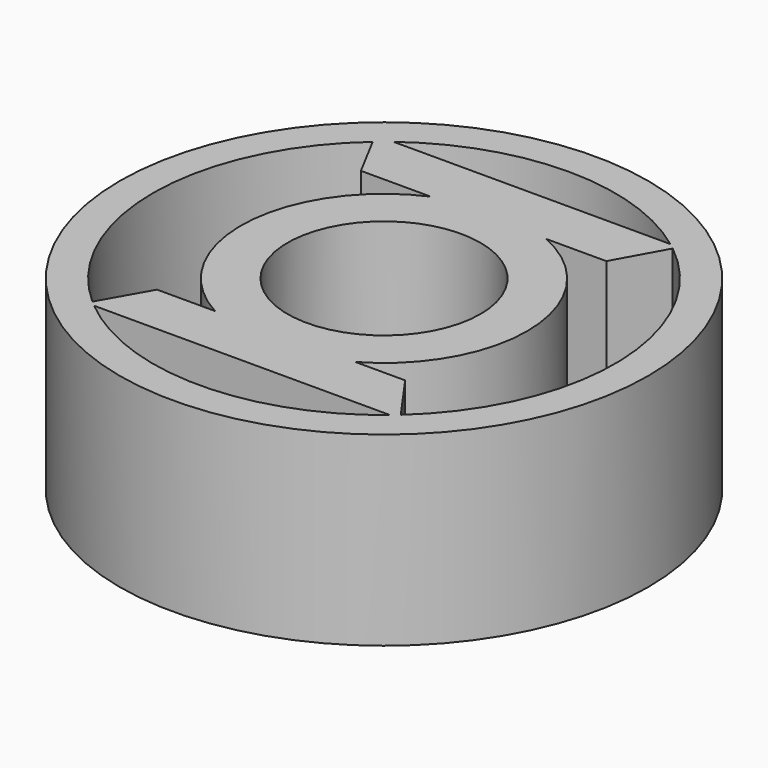
from build123d import *

# Parameters (mm, degrees)
F0_R     = 36.08161
F0_R_2   = 13.185611
F1_DEPTH = 25.4


with BuildPart() as f1:
    # F0 (on Top) → F1 (new body)
    with BuildSketch(Plane.XY):
        with Locations((39.592859, 43.051734)):
            Circle(F0_R)
        with BuildLine():
            Line((19.382235, 18.802678), (59.803483, 18.802678))
            ThreePointArc((59.803483, 18.802678), (39.592859, 11.484567), (19.382235, 18.802678))
        make_face(mode=Mode.SUBTRACT)
        with BuildLine():
            ThreePointArc((18.651426, 19.430929), (8.026297, 43.247265), (18.945648, 66.93015))
            Line((18.945648, 66.93015), (22.142446, 60.919136))
            Line((22.142446, 60.919136), (31.677106, 60.919136))
            ThreePointArc((31.677106, 60.919136), (20.067291, 43.861285), (30.225212, 25.900921))
            Line((30.225212, 25.900921), (22.307441, 25.900921))
            Line((22.307441, 25.900921), (18.651426, 19.430929))
        make_face(mode=Mode.SUBTRACT)
        with Locations((39.592859, 43.051734)):
            Circle(F0_R_2, mode=Mode.SUBTRACT)
        with BuildLine():
            ThreePointArc((59.328042, 67.689279), (71.147634, 43.936163), (60.677075, 19.55829))
            Line((60.677075, 19.55829), (56.070499, 26.066871))
            Line((56.070499, 26.066871), (49.258139, 26.066871))
            ThreePointArc((49.258139, 26.066871), (59.106396, 44.112428), (47.360145, 60.984176))
            Line((47.360145, 60.984176), (55.61997, 60.984176))
            Line((55.61997, 60.984176), (59.328042, 67.689279))
        make_face(mode=Mode.SUBTRACT)
        with BuildLine():
            ThreePointArc((20.678144, 68.324636), (39.592859, 74.618901), (58.507575, 68.324636))
            Line((58.507575, 68.324636), (20.678144, 68.324636))
        make_face(mode=Mode.SUBTRACT)
    extrude(amount=F1_DEPTH)


solid = f1.part
